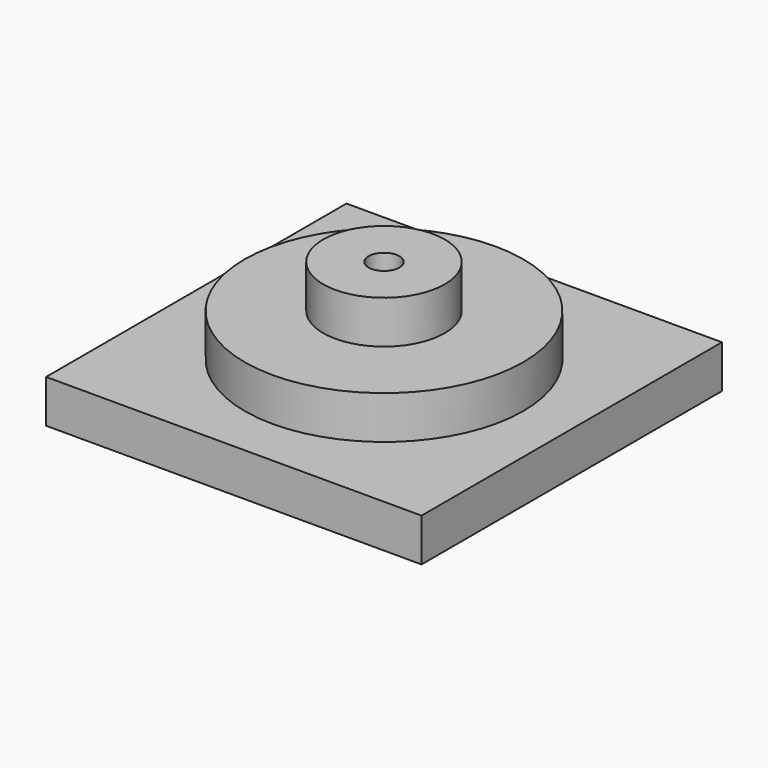
from build123d import *

# Parameters (mm, degrees)
F0_R     = 17.939821
F0_R_2   = 4.5466
F1_DEPTH = 25.4
F0_R_3   = 41.14561
F2_DEPTH = 12.7
F0_W     = 110.865114
F0_H     = 110.865114
F0_W_2   = 8.71167
F0_H_2   = 20.327227
F3_DEPTH = 12.7
F4_DEPTH = 1.27


with BuildPart() as f1:
    # F0 (on Top) → F1 (new body)
    with BuildSketch(Plane.XY):
        Circle(F0_R)
        Circle(F0_R_2, mode=Mode.SUBTRACT)
    extrude(amount=F1_DEPTH)

    # F0 (on Top) → F2 (join, symmetric)
    with BuildSketch(Plane.XY):
        Circle(F0_R_3)
        Circle(F0_R, mode=Mode.SUBTRACT)
    extrude(amount=F2_DEPTH, both=True)

    # F0 (on Top) → F3 (join)
    with BuildSketch(Plane.XY):
        Rectangle(F0_W, F0_H)
        with Locations((-45.010282, -39.021014)):
            Rectangle(F0_W_2, F0_H_2, mode=Mode.SUBTRACT)
        with Locations((45.010282, -39.021014)):
            Rectangle(F0_W_2, F0_H_2, mode=Mode.SUBTRACT)
        Circle(F0_R_3, mode=Mode.SUBTRACT)
        with Locations((-45.010282, 39.021014)):
            Rectangle(F0_W_2, F0_H_2, mode=Mode.SUBTRACT)
        with Locations((45.010282, 39.021014)):
            Rectangle(F0_W_2, F0_H_2, mode=Mode.SUBTRACT)
    extrude(amount=-F3_DEPTH)

    # F0 (on Top) → F4 (join)
    with BuildSketch(Plane.XY):
        with Locations((-45.010282, 39.021014)):
            Rectangle(F0_W_2, F0_H_2)
        with Locations((45.010282, 39.021014)):
            Rectangle(F0_W_2, F0_H_2)
        with Locations((45.010282, -39.021014)):
            Rectangle(F0_W_2, F0_H_2)
        with Locations((-45.010282, -39.021014)):
            Rectangle(F0_W_2, F0_H_2)
    extrude(amount=-F4_DEPTH)


solid = f1.part
